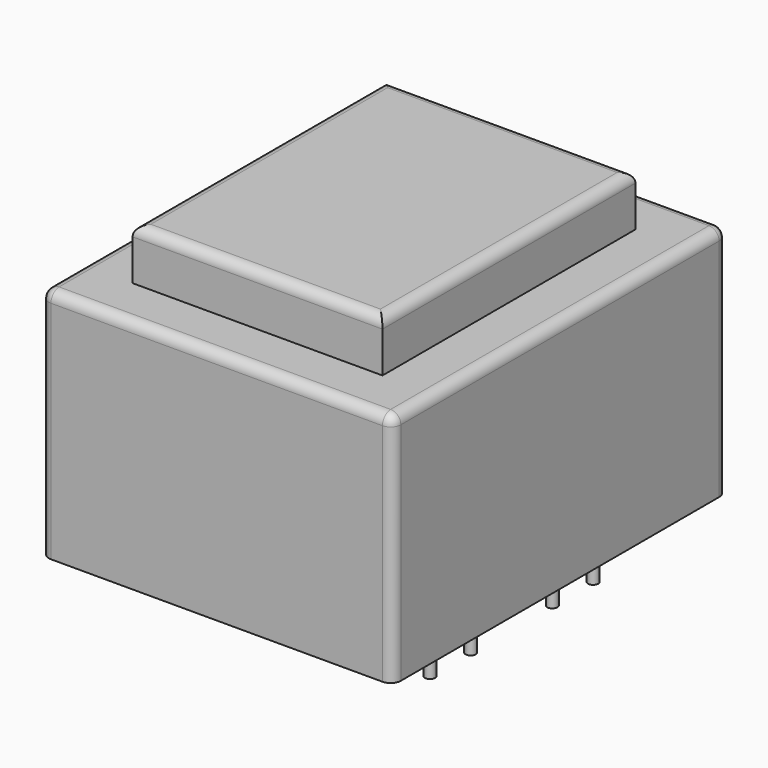
from build123d import *

# Parameters (mm, degrees)
F0_W     = 34.5
F0_H     = 41
F1_DEPTH = 28.1
F2_R     = 0.5
F3_DEPTH = 5
F4_W     = 34.5
F4_H     = 41
F4_W_2   = 24.5
F4_H_2   = 31
F5_DEPTH = 5
F6_R     = 1


with BuildPart() as f1:
    # F0 (on Top) → F1 (new body)
    with BuildSketch(Plane.XY):
        Rectangle(F0_W, F0_H)
    extrude(amount=F1_DEPTH)

    # F2 (on face) → F3 (join)
    with BuildSketch(Plane(origin=(0, 0, 0), x_dir=(1, 0, 0), z_dir=(0, 0, -1))):
        with Locations((-12.5, 10)):
            Circle(F2_R)
        with Locations((-12.5, -10)):
            Circle(F2_R)
        with Locations((12.5, 10)):
            Circle(F2_R)
        with Locations((12.5, -10)):
            Circle(F2_R)
        with Locations((12.5, -5)):
            Circle(F2_R)
        with Locations((12.5, 5)):
            Circle(F2_R)
    extrude(amount=F3_DEPTH)

    # F4 (on face) → F5 (cut)
    with BuildSketch(Plane.XY.offset(28.1)):
        Rectangle(F4_W, F4_H)
        Rectangle(F4_W_2, F4_H_2, mode=Mode.SUBTRACT)
    extrude(amount=-F5_DEPTH, mode=Mode.SUBTRACT)

    # F6
    f6_edges = [f1.edges().sort_by_distance(p)[0] for p in [
        (-12.25, 0, 28.1),
        (0, -15.5, 28.1),
        (12.25, 0, 28.1),
        (0, 15.5, 28.1),
        (17.25, -20.5, 11.55),
        (17.25, 20.5, 11.55),
        (-17.25, -20.5, 11.55),
        (0, -20.5, 23.1),
        (17.25, 0, 23.1),
        (0, 20.5, 23.1),
        (-17.25, 0, 23.1),
        (-17.25, 20.5, 11.55),
    ]]
    fillet(f6_edges, radius=F6_R)


solid = f1.part
